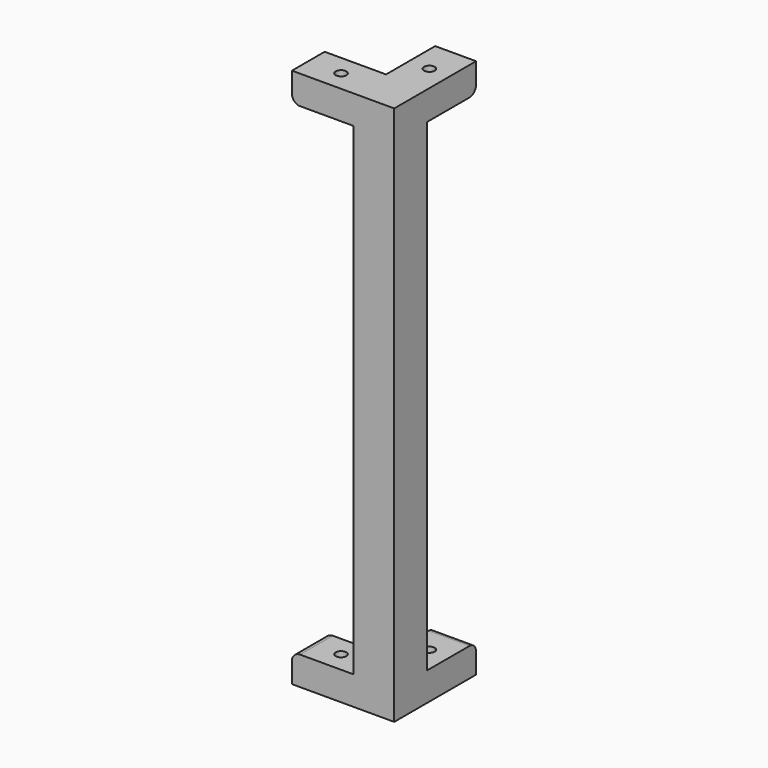
from build123d import *

# Parameters (mm, degrees)
CYLINDER014_R          = 1.3
CYLINDER014_DEPTH      = 146
CYLINDER013_R          = 1.3
CYLINDER013_DEPTH      = 146
BOX072_W               = 10
BOX072_H               = 10
BOX072_DEPTH           = 132
BOX076_W               = 15
BOX076_H               = 10
BOX076_DEPTH           = 7
BOX074_W               = 10
BOX074_H               = 15
BOX074_DEPTH           = 7
BOX075_W               = 10
BOX075_H               = 15
BOX075_DEPTH           = 7
BOX073_W               = 15
BOX073_H               = 10
BOX073_DEPTH           = 7
FILLET002_R            = 2
CUT027_PLACEMENT_ANGLE = 90


with BuildPart() as cilindro014:
    # Cylinder014 → Cylinder014 (new body)
    with BuildSketch(Plane(origin=(5, 17, 8), x_dir=(1, 0, 0), z_dir=(0, 0, 1))):
        Circle(CYLINDER014_R)
    extrude(amount=CYLINDER014_DEPTH)


with BuildPart() as cilindro013:
    # Cylinder013 → Cylinder013 (new body)
    with BuildSketch(Plane(origin=(17, 5, 8), x_dir=(1, 0, 0), z_dir=(0, 0, 1))):
        Circle(CYLINDER013_R)
    extrude(amount=CYLINDER013_DEPTH)


with BuildPart() as cubo035:
    # Box072 → Box072 (new body)
    with BuildSketch(Plane.XY.offset(15)):
        with Locations((5, 5)):
            Rectangle(BOX072_W, BOX072_H)
    extrude(amount=BOX072_DEPTH)


with BuildPart() as cubo039:
    # Box076 → Box076 (new body)
    with BuildSketch(Plane(origin=(10, 0, 140), x_dir=(1, 0, 0), z_dir=(0, 0, 1))):
        with Locations((7.5, 5)):
            Rectangle(BOX076_W, BOX076_H)
    extrude(amount=BOX076_DEPTH)


with BuildPart() as cubo037:
    # Box074 → Box074 (new body)
    with BuildSketch(Plane(origin=(0, 10, 15), x_dir=(1, 0, 0), z_dir=(0, 0, 1))):
        with Locations((5, 7.5)):
            Rectangle(BOX074_W, BOX074_H)
    extrude(amount=BOX074_DEPTH)


with BuildPart() as cubo038:
    # Box075 → Box075 (new body)
    with BuildSketch(Plane(origin=(0, 10, 140), x_dir=(1, 0, 0), z_dir=(0, 0, 1))):
        with Locations((5, 7.5)):
            Rectangle(BOX075_W, BOX075_H)
    extrude(amount=BOX075_DEPTH)


with BuildPart() as obj1:
    # Box073 → Box073 (new body)
    with BuildSketch(Plane(origin=(10, 0, 15), x_dir=(1, 0, 0), z_dir=(0, 0, 1))):
        with Locations((7.5, 5)):
            Rectangle(BOX073_W, BOX073_H)
    extrude(amount=BOX073_DEPTH)

    # Fusion010: union Cubo035, Cubo039, Cubo037, Cubo038
    add(cubo035.part)
    add(cubo039.part)
    add(cubo037.part)
    add(cubo038.part)

    # Fillet002
    fillet002_edges = [obj1.edges().sort_by_distance(p)[0] for p in [
        (25, 5, 22),
        (25, 5, 140),
        (5, 25, 22),
        (5, 25, 140),
    ]]
    fillet(fillet002_edges, radius=FILLET002_R)

    # Cut028: cut Cilindro013
    add(cilindro013.part, mode=Mode.SUBTRACT)

    # Cut027: cut Cilindro014
    add(cilindro014.part, mode=Mode.SUBTRACT)


with BuildPart() as obj1_1:
    # Cut027 placement: moved
    add(obj1.part.moved(Location((340, 0, 0))).rotate(Axis((340, 0, 0), (0, 0, 1)), CUT027_PLACEMENT_ANGLE))


solid = obj1_1.part
